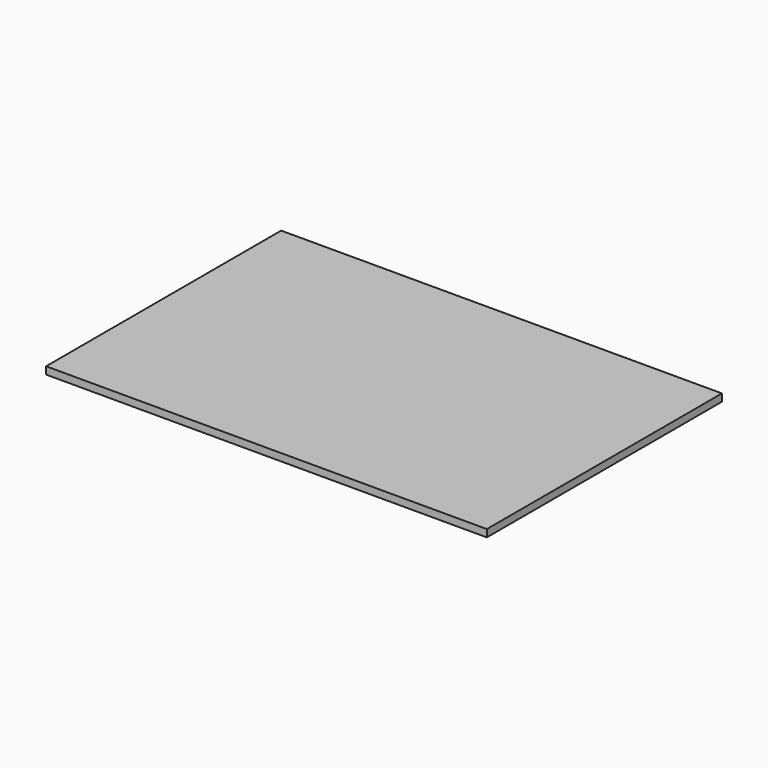
from build123d import *

# Parameters (mm, degrees)
F1_DEPTH = 2.54


with BuildPart() as f1:
    # F0 (on Top) → F1 (new body)
    with BuildSketch(Plane.XY):
        Polygon((-76.2, 63.8), (-76.2, 58.8), (-47.2, 58.8), (-47.2, 63.8), (-66.2, 63.8), align=None)
        Polygon((-76.2, 42.8), (-76.2, 37.8), (-66.2, 37.8), (-47.2, 37.8), (-47.2, 42.8), align=None)
        Polygon((-76.2, 37.8), (-76.2, 0), (76.2, 0), (76.2, 37.8), (66.2, 37.8), (66.2, 10), (-66.2, 10), (-66.2, 37.8), align=None)
        Polygon((66.2, 37.8), (76.2, 37.8), (76.2, 42.8), (47.2, 42.8), (47.2, 37.8), align=None)
        Polygon((47.2, 58.8), (76.2, 58.8), (76.2, 63.8), (66.2, 63.8), (47.2, 63.8), align=None)
        Polygon((-76.2, 101.6), (-76.2, 63.8), (-66.2, 63.8), (-66.2, 91.6), (66.2, 91.6), (66.2, 63.8), (76.2, 63.8), (76.2, 101.6), align=None)
        Polygon((-76.2, 58.8), (-76.2, 42.8), (-47.2, 42.8), (-47.2, 37.8), (-66.2, 37.8), (-66.2, 10), (66.2, 10), (66.2, 37.8), (47.2, 37.8), (47.2, 42.8), (76.2, 42.8), (76.2, 58.8), (47.2, 58.8), (47.2, 63.8), (66.2, 63.8), (66.2, 91.6), (-66.2, 91.6), (-66.2, 63.8), (-47.2, 63.8), (-47.2, 58.8), align=None)
    extrude(amount=F1_DEPTH)


solid = f1.part
